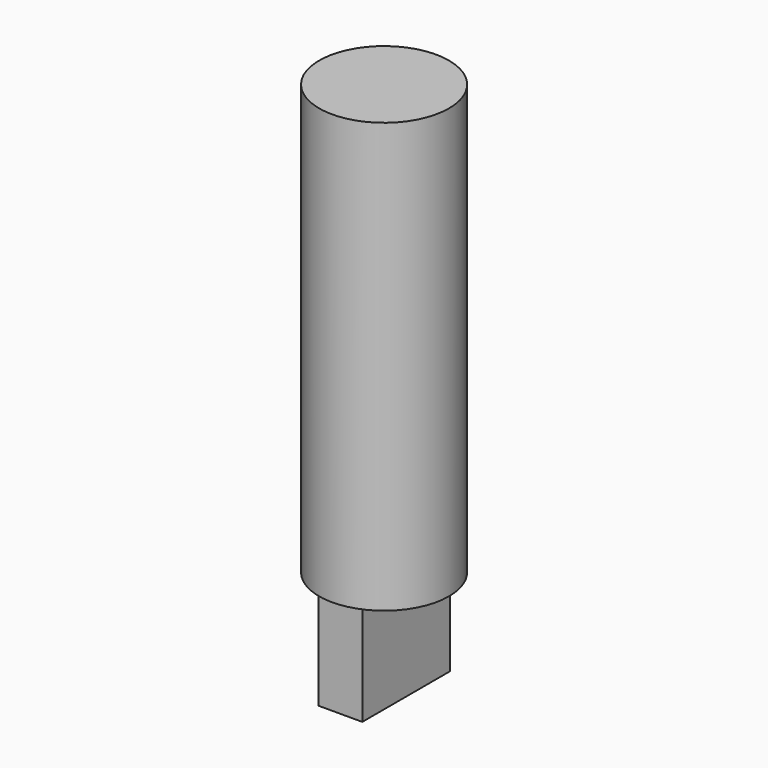
from build123d import *

# Parameters (mm, degrees)
F0_R     = 6.345
F0_W     = 4.3
F0_H     = 10.7
F1_DEPTH = 42
F2_DEPTH = 10


with BuildPart() as f1:
    # F0 (on Top) → F1 (new body)
    with BuildSketch(Plane.XY):
        Circle(F0_R)
        Rectangle(F0_W, F0_H, mode=Mode.SUBTRACT)
        Rectangle(F0_W, F0_H)
    extrude(amount=F1_DEPTH)

    # F0 (on Top) → F2 (join)
    with BuildSketch(Plane.XY):
        Rectangle(F0_W, F0_H)
    extrude(amount=-F2_DEPTH)


solid = f1.part
